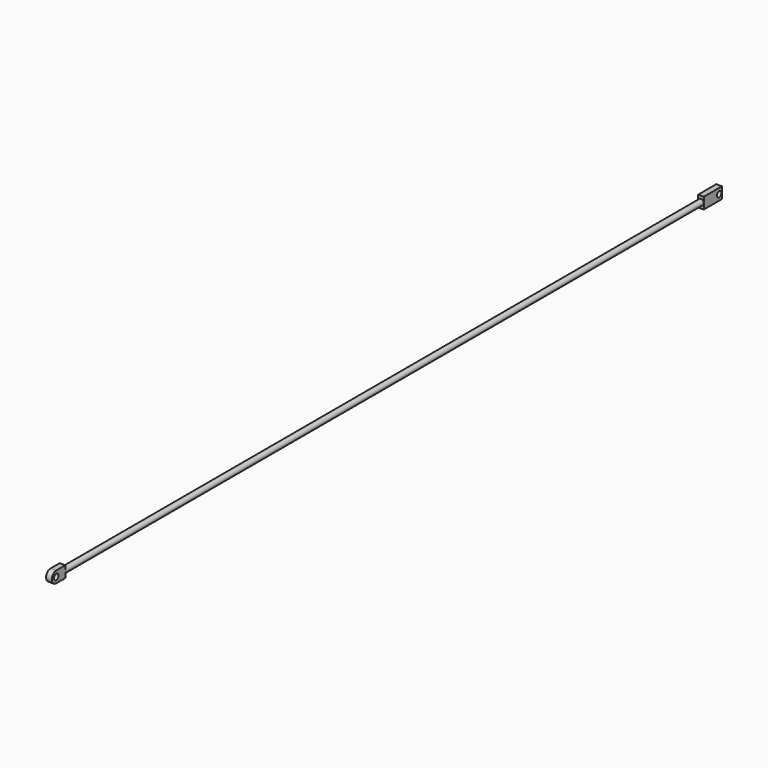
from build123d import *

# Parameters (mm, degrees)
F1_R     = 3.175
F2_DEPTH = 3.175
F3_DEPTH = 3.175
F0_R     = 3.175
F4_DEPTH = 914.4
F5_W     = 25.4
F5_H     = 12.7
F5_R     = 3.175
F6_DEPTH = 3.175


with BuildPart() as f2:
    # F1 (on Right) → F2 (new body, symmetric)
    with BuildSketch(Plane.YZ):
        with BuildLine():
            ThreePointArc((-6.35, 6.35), (-12.7, 0), (-6.35, -6.35))
            ThreePointArc((-6.35, -6.35), (-1.8598719395, -4.4901280605), (0, 0))
            ThreePointArc((0, 0), (-1.8598719395, 4.4901280605), (-6.35, 6.35))
        make_face()
        with Locations((-6.35, 0)):
            Circle(F1_R, mode=Mode.SUBTRACT)
    extrude(amount=F2_DEPTH, both=True)

    # F1 (on Right) → F3 (join, symmetric)
    with BuildSketch(Plane.YZ):
        with BuildLine():
            Line((-6.35, -6.35), (6.35, -6.35))
            Line((6.35, -6.35), (6.35, 6.35))
            Line((6.35, 6.35), (-6.35, 6.35))
            ThreePointArc((-6.35, 6.35), (-1.8598719395, 4.4901280605), (0, 0))
            ThreePointArc((0, 0), (-1.8598719395, -4.4901280605), (-6.35, -6.35))
        make_face()
    extrude(amount=F3_DEPTH, both=True)

    # F0 (on Front) → F4 (join)
    with BuildSketch(Plane.XZ):
        Circle(F0_R)
    extrude(amount=-F4_DEPTH)

    # F5 (on Right) → F6 (join, symmetric)
    with BuildSketch(Plane.YZ):
        with Locations((914.4588708878, 0)):
            Rectangle(F5_W, F5_H)
        with Locations((923.234462738, 0)):
            Circle(F5_R, mode=Mode.SUBTRACT)
    extrude(amount=F6_DEPTH, both=True)


solid = f2.part
